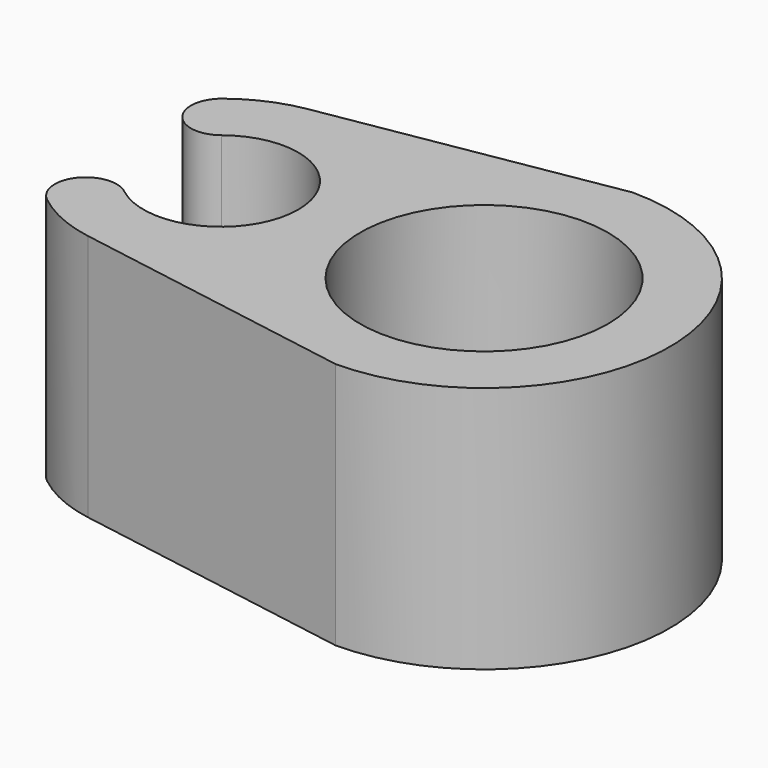
from build123d import *

# Parameters (mm, degrees)
F0_R     = 4
F1_DEPTH = 8


with BuildPart() as f1:
    # F0 (on Top) → F1 (new body)
    with BuildSketch(Plane.XY):
        with BuildLine():
            Line((-9.249722, -4.437107), (0, -6))
            ThreePointArc((0, -6), (6, 0), (0, 6))
            Line((0, 6), (-9.249722, 4.437107))
            ThreePointArc((-9.249722, 4.437107), (-10.32327, 4.114084), (-11.283653, 3.535714))
            ThreePointArc((-11.283653, 3.535714), (-11.450778, 2.13141), (-10.046474, 1.964286))
            ThreePointArc((-10.046474, 1.964286), (-6, 0), (-10.046474, -1.964286))
            ThreePointArc((-10.046474, -1.964286), (-11.450778, -2.13141), (-11.283653, -3.535714))
            ThreePointArc((-11.283653, -3.535714), (-10.32327, -4.114084), (-9.249722, -4.437107))
        make_face()
        Circle(F0_R, mode=Mode.SUBTRACT)
    extrude(amount=F1_DEPTH)


solid = f1.part
